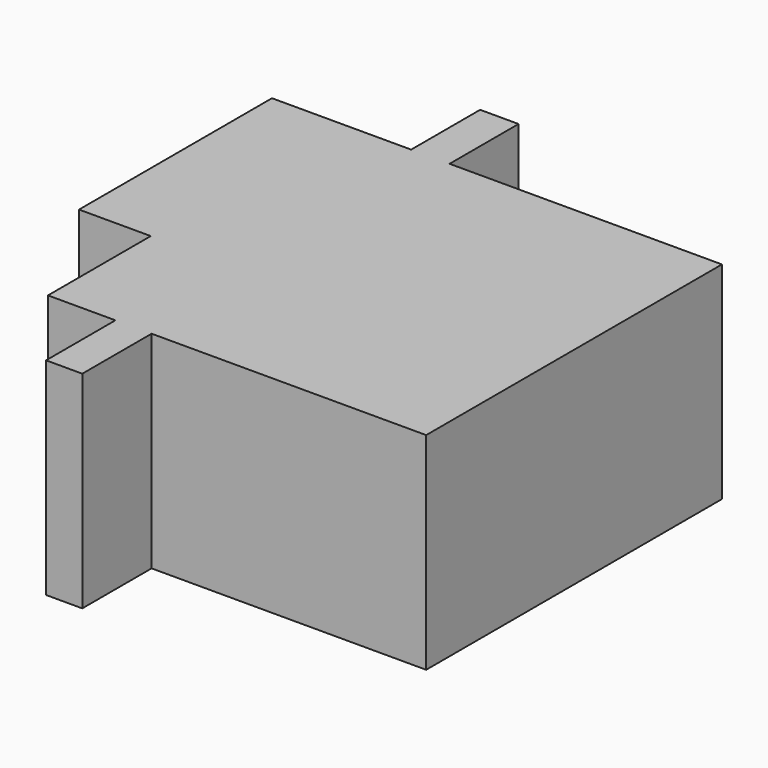
from build123d import *

# Parameters (mm, degrees)
F0_W     = 4.2672
F0_H     = 14.351
F0_W_2   = 2.286
F0_H_2   = 5.1308
F0_W_3   = 2.154207
F0_H_3   = 5.1562
F1_DEPTH = 12.2936


with BuildPart() as f1:
    # F0 (on Top) → F1 (new body)
    with BuildSketch(Plane.XY):
        Polygon((-13.986457, 14.351), (-17.999657, 14.351), (-17.999657, 0), (-17.999657, -7.6454), (-13.986457, -7.6454), (-11.83225, -7.6454), (4.504743, -7.6454), (4.504743, 14.351), (-11.700457, 14.351), align=None)
        with Locations((-20.133257, 7.1755)):
            Rectangle(F0_W, F0_H)
        with Locations((-12.843457, 16.9164)):
            Rectangle(F0_W_2, F0_H_2)
        with Locations((-12.909353, -10.2235)):
            Rectangle(F0_W_3, F0_H_3)
    extrude(amount=F1_DEPTH)


solid = f1.part
